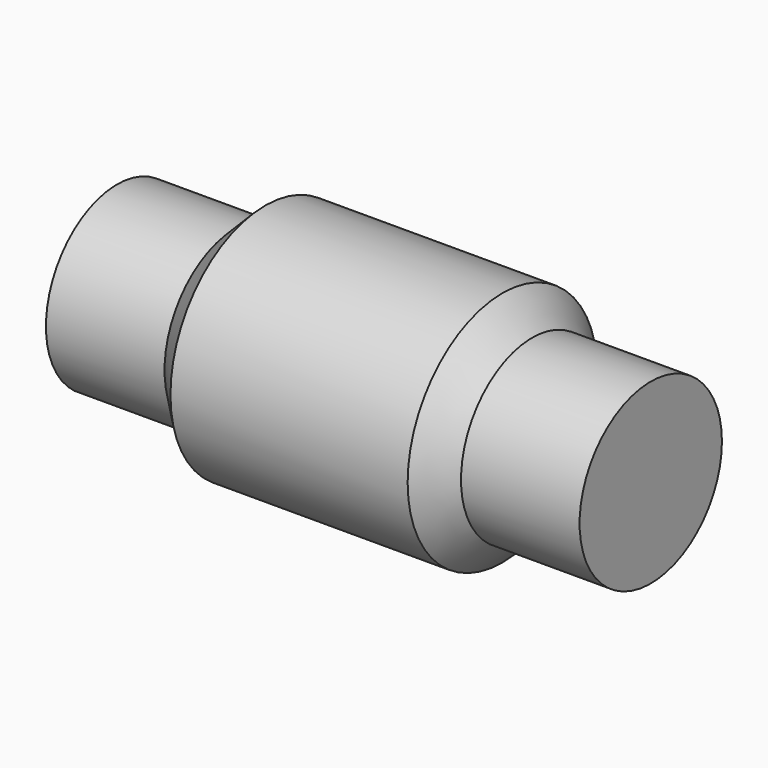
from build123d import *

# Parameters (mm, degrees)
F0_W = 20
F0_H = 15


with BuildPart() as f1:
    # F0 (on Top) → F1 (revolve)
    with BuildSketch(Plane.XY):
        Polygon((-20.665633, 21.056396), (-25.665633, 16.056396), (-20.665633, 16.056396), align=None)
        Polygon((14.334367, 16.056396), (19.334367, 16.056396), (19.334367, 21.056396), (-20.665633, 21.056396), (-20.665633, 16.056396), (-15.665633, 16.056396), align=None)
        Polygon((19.334367, 16.056396), (24.334367, 16.056396), (19.334367, 21.056396), align=None)
        Polygon((-25.665633, 1.056396), (24.334367, 1.056396), (24.334367, 16.056396), (19.334367, 16.056396), (14.334367, 16.056396), (-15.665633, 16.056396), (-20.665633, 16.056396), (-25.665633, 16.056396), align=None)
        with Locations((-35.665633, 8.556396)):
            Rectangle(F0_W, F0_H)
        with Locations((34.334367, 8.556396)):
            Rectangle(F0_W, F0_H)
    revolve(axis=Axis((-0.665633, 1.056396, 0), (-1, 0, 0)))


solid = f1.part
